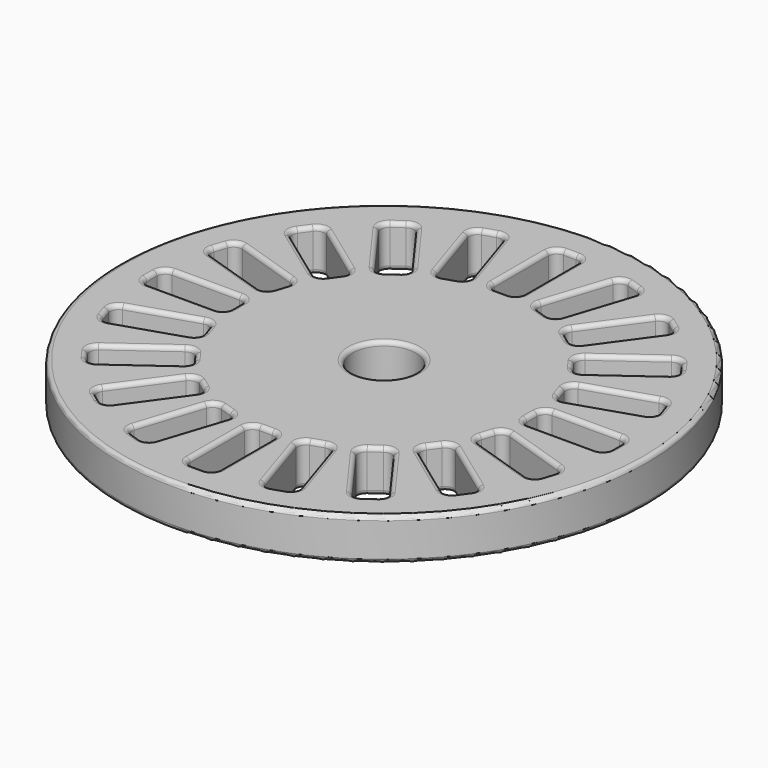
from build123d import *

# Parameters (mm, degrees)
F0_R     = 12.5
F0_R_2   = 1.5
F1_DEPTH = 2
F2_R     = 0.2


with BuildPart() as f1:
    # F0 (on Top) → F1 (new body)
    with BuildSketch(Plane.XY):
        Circle(F0_R)
        with BuildLine():
            ThreePointArc((-6.708343, -8.722851), (-6.868304, -8.461818), (-6.796836, -8.16413))
            Line((-6.796836, -8.16413), (-4.915923, -5.575276))
            ThreePointArc((-4.915923, -5.575276), (-4.65489, -5.415315), (-4.357202, -5.486783))
            Line((-4.357202, -5.486783), (-3.871792, -5.839455))
            ThreePointArc((-3.871792, -5.839455), (-3.71183, -6.100488), (-3.783299, -6.398175))
            Line((-3.783299, -6.398175), (-5.664212, -8.98703))
            ThreePointArc((-5.664212, -8.98703), (-5.925245, -9.146991), (-6.222933, -9.075523))
            Line((-6.222933, -9.075523), (-6.708343, -8.722851))
        make_face(mode=Mode.SUBTRACT)
        with BuildLine():
            ThreePointArc((-3.684504, -10.368917), (-3.9173, -10.17009), (-3.94132, -9.864887))
            Line((-3.94132, -9.864887), (-2.952465, -6.821506))
            ThreePointArc((-2.952465, -6.821506), (-2.753639, -6.588711), (-2.448436, -6.564691))
            Line((-2.448436, -6.564691), (-1.877802, -6.750101))
            ThreePointArc((-1.877802, -6.750101), (-1.645006, -6.948927), (-1.620986, -7.25413))
            Line((-1.620986, -7.25413), (-2.609841, -10.297511))
            ThreePointArc((-2.609841, -10.297511), (-2.808667, -10.530307), (-3.11387, -10.554327))
            Line((-3.11387, -10.554327), (-3.684504, -10.368917))
        make_face(mode=Mode.SUBTRACT)
        with BuildLine():
            ThreePointArc((-9.075523, -6.222933), (-9.146991, -5.925245), (-8.98703, -5.664212))
            Line((-8.98703, -5.664212), (-6.398175, -3.783299))
            ThreePointArc((-6.398175, -3.783299), (-6.100488, -3.71183), (-5.839455, -3.871792))
            Line((-5.839455, -3.871792), (-5.486783, -4.357202))
            ThreePointArc((-5.486783, -4.357202), (-5.415315, -4.65489), (-5.575276, -4.915923))
            Line((-5.575276, -4.915923), (-8.16413, -6.796836))
            ThreePointArc((-8.16413, -6.796836), (-8.461818, -6.868304), (-8.722851, -6.708343))
            Line((-8.722851, -6.708343), (-9.075523, -6.222933))
        make_face(mode=Mode.SUBTRACT)
        with BuildLine():
            ThreePointArc((-10.554327, -3.11387), (-10.530307, -2.808667), (-10.297511, -2.609841))
            Line((-10.297511, -2.609841), (-7.25413, -1.620986))
            ThreePointArc((-7.25413, -1.620986), (-6.948927, -1.645006), (-6.750101, -1.877802))
            Line((-6.750101, -1.877802), (-6.564691, -2.448436))
            ThreePointArc((-6.564691, -2.448436), (-6.588711, -2.753639), (-6.821506, -2.952465))
            Line((-6.821506, -2.952465), (-9.864887, -3.94132))
            ThreePointArc((-9.864887, -3.94132), (-10.17009, -3.9173), (-10.368917, -3.684504))
            Line((-10.368917, -3.684504), (-10.554327, -3.11387))
        make_face(mode=Mode.SUBTRACT)
        with BuildLine():
            ThreePointArc((-0.3, -11), (-0.582843, -10.882843), (-0.7, -10.6))
            Line((-0.7, -10.6), (-0.7, -7.4))
            ThreePointArc((-0.7, -7.4), (-0.582843, -7.117157), (-0.3, -7))
            Line((-0.3, -7), (0.3, -7))
            ThreePointArc((0.3, -7), (0.582843, -7.117157), (0.7, -7.4))
            Line((0.7, -7.4), (0.7, -10.6))
            ThreePointArc((0.7, -10.6), (0.582843, -10.882843), (0.3, -11))
            Line((0.3, -11), (-0.3, -11))
        make_face(mode=Mode.SUBTRACT)
        with BuildLine():
            ThreePointArc((3.11387, -10.554327), (2.808667, -10.530307), (2.609841, -10.297511))
            Line((2.609841, -10.297511), (1.620986, -7.25413))
            ThreePointArc((1.620986, -7.25413), (1.645006, -6.948927), (1.877802, -6.750101))
            Line((1.877802, -6.750101), (2.448436, -6.564691))
            ThreePointArc((2.448436, -6.564691), (2.753639, -6.588711), (2.952465, -6.821506))
            Line((2.952465, -6.821506), (3.94132, -9.864887))
            ThreePointArc((3.94132, -9.864887), (3.9173, -10.17009), (3.684504, -10.368917))
            Line((3.684504, -10.368917), (3.11387, -10.554327))
        make_face(mode=Mode.SUBTRACT)
        with BuildLine():
            ThreePointArc((6.222933, -9.075523), (5.925245, -9.146991), (5.664212, -8.98703))
            Line((5.664212, -8.98703), (3.783299, -6.398175))
            ThreePointArc((3.783299, -6.398175), (3.71183, -6.100488), (3.871792, -5.839455))
            Line((3.871792, -5.839455), (4.357202, -5.486783))
            ThreePointArc((4.357202, -5.486783), (4.65489, -5.415315), (4.915923, -5.575276))
            Line((4.915923, -5.575276), (6.796836, -8.16413))
            ThreePointArc((6.796836, -8.16413), (6.868304, -8.461818), (6.708343, -8.722851))
            Line((6.708343, -8.722851), (6.222933, -9.075523))
        make_face(mode=Mode.SUBTRACT)
        with BuildLine():
            ThreePointArc((8.722851, -6.708343), (8.461818, -6.868304), (8.16413, -6.796836))
            Line((8.16413, -6.796836), (5.575276, -4.915923))
            ThreePointArc((5.575276, -4.915923), (5.415315, -4.65489), (5.486783, -4.357202))
            Line((5.486783, -4.357202), (5.839455, -3.871792))
            ThreePointArc((5.839455, -3.871792), (6.100488, -3.71183), (6.398175, -3.783299))
            Line((6.398175, -3.783299), (8.98703, -5.664212))
            ThreePointArc((8.98703, -5.664212), (9.146991, -5.925245), (9.075523, -6.222933))
            Line((9.075523, -6.222933), (8.722851, -6.708343))
        make_face(mode=Mode.SUBTRACT)
        with BuildLine():
            ThreePointArc((10.368917, -3.684504), (10.17009, -3.9173), (9.864887, -3.94132))
            Line((9.864887, -3.94132), (6.821506, -2.952465))
            ThreePointArc((6.821506, -2.952465), (6.588711, -2.753639), (6.564691, -2.448436))
            Line((6.564691, -2.448436), (6.750101, -1.877802))
            ThreePointArc((6.750101, -1.877802), (6.948927, -1.645006), (7.25413, -1.620986))
            Line((7.25413, -1.620986), (10.297511, -2.609841))
            ThreePointArc((10.297511, -2.609841), (10.530307, -2.808667), (10.554327, -3.11387))
            Line((10.554327, -3.11387), (10.368917, -3.684504))
        make_face(mode=Mode.SUBTRACT)
        with BuildLine():
            ThreePointArc((-11, 0.3), (-10.882843, 0.582843), (-10.6, 0.7))
            Line((-10.6, 0.7), (-7.4, 0.7))
            ThreePointArc((-7.4, 0.7), (-7.117157, 0.582843), (-7, 0.3))
            Line((-7, 0.3), (-7, -0.3))
            ThreePointArc((-7, -0.3), (-7.117157, -0.582843), (-7.4, -0.7))
            Line((-7.4, -0.7), (-10.6, -0.7))
            ThreePointArc((-10.6, -0.7), (-10.882843, -0.582843), (-11, -0.3))
            Line((-11, -0.3), (-11, 0.3))
        make_face(mode=Mode.SUBTRACT)
        with BuildLine():
            ThreePointArc((-10.368917, 3.684504), (-10.17009, 3.9173), (-9.864887, 3.94132))
            Line((-9.864887, 3.94132), (-6.821506, 2.952465))
            ThreePointArc((-6.821506, 2.952465), (-6.588711, 2.753639), (-6.564691, 2.448436))
            Line((-6.564691, 2.448436), (-6.750101, 1.877802))
            ThreePointArc((-6.750101, 1.877802), (-6.948927, 1.645006), (-7.25413, 1.620986))
            Line((-7.25413, 1.620986), (-10.297511, 2.609841))
            ThreePointArc((-10.297511, 2.609841), (-10.530307, 2.808667), (-10.554327, 3.11387))
            Line((-10.554327, 3.11387), (-10.368917, 3.684504))
        make_face(mode=Mode.SUBTRACT)
        with BuildLine():
            ThreePointArc((-8.722851, 6.708343), (-8.461818, 6.868304), (-8.16413, 6.796836))
            Line((-8.16413, 6.796836), (-5.575276, 4.915923))
            ThreePointArc((-5.575276, 4.915923), (-5.415315, 4.65489), (-5.486783, 4.357202))
            Line((-5.486783, 4.357202), (-5.839455, 3.871792))
            ThreePointArc((-5.839455, 3.871792), (-6.100488, 3.71183), (-6.398175, 3.783299))
            Line((-6.398175, 3.783299), (-8.98703, 5.664212))
            ThreePointArc((-8.98703, 5.664212), (-9.146991, 5.925245), (-9.075523, 6.222933))
            Line((-9.075523, 6.222933), (-8.722851, 6.708343))
        make_face(mode=Mode.SUBTRACT)
        with BuildLine():
            ThreePointArc((-6.222933, 9.075523), (-5.925245, 9.146991), (-5.664212, 8.98703))
            Line((-5.664212, 8.98703), (-3.783299, 6.398175))
            ThreePointArc((-3.783299, 6.398175), (-3.71183, 6.100488), (-3.871792, 5.839455))
            Line((-3.871792, 5.839455), (-4.357202, 5.486783))
            ThreePointArc((-4.357202, 5.486783), (-4.65489, 5.415315), (-4.915923, 5.575276))
            Line((-4.915923, 5.575276), (-6.796836, 8.16413))
            ThreePointArc((-6.796836, 8.16413), (-6.868304, 8.461818), (-6.708343, 8.722851))
            Line((-6.708343, 8.722851), (-6.222933, 9.075523))
        make_face(mode=Mode.SUBTRACT)
        with BuildLine():
            ThreePointArc((-3.11387, 10.554327), (-2.808667, 10.530307), (-2.609841, 10.297511))
            Line((-2.609841, 10.297511), (-1.620986, 7.25413))
            ThreePointArc((-1.620986, 7.25413), (-1.645006, 6.948927), (-1.877802, 6.750101))
            Line((-1.877802, 6.750101), (-2.448436, 6.564691))
            ThreePointArc((-2.448436, 6.564691), (-2.753639, 6.588711), (-2.952465, 6.821506))
            Line((-2.952465, 6.821506), (-3.94132, 9.864887))
            ThreePointArc((-3.94132, 9.864887), (-3.9173, 10.17009), (-3.684504, 10.368917))
            Line((-3.684504, 10.368917), (-3.11387, 10.554327))
        make_face(mode=Mode.SUBTRACT)
        Circle(F0_R_2, mode=Mode.SUBTRACT)
        with BuildLine():
            ThreePointArc((11, -0.3), (10.882843, -0.582843), (10.6, -0.7))
            Line((10.6, -0.7), (7.4, -0.7))
            ThreePointArc((7.4, -0.7), (7.117157, -0.582843), (7, -0.3))
            Line((7, -0.3), (7, 0.3))
            ThreePointArc((7, 0.3), (7.117157, 0.582843), (7.4, 0.7))
            Line((7.4, 0.7), (10.6, 0.7))
            ThreePointArc((10.6, 0.7), (10.882843, 0.582843), (11, 0.3))
            Line((11, 0.3), (11, -0.3))
        make_face(mode=Mode.SUBTRACT)
        with BuildLine():
            ThreePointArc((10.554327, 3.11387), (10.530307, 2.808667), (10.297511, 2.609841))
            Line((10.297511, 2.609841), (7.25413, 1.620986))
            ThreePointArc((7.25413, 1.620986), (6.948927, 1.645006), (6.750101, 1.877802))
            Line((6.750101, 1.877802), (6.564691, 2.448436))
            ThreePointArc((6.564691, 2.448436), (6.588711, 2.753639), (6.821506, 2.952465))
            Line((6.821506, 2.952465), (9.864887, 3.94132))
            ThreePointArc((9.864887, 3.94132), (10.17009, 3.9173), (10.368917, 3.684504))
            Line((10.368917, 3.684504), (10.554327, 3.11387))
        make_face(mode=Mode.SUBTRACT)
        with BuildLine():
            ThreePointArc((9.075523, 6.222933), (9.146991, 5.925245), (8.98703, 5.664212))
            Line((8.98703, 5.664212), (6.398175, 3.783299))
            ThreePointArc((6.398175, 3.783299), (6.100488, 3.71183), (5.839455, 3.871792))
            Line((5.839455, 3.871792), (5.486783, 4.357202))
            ThreePointArc((5.486783, 4.357202), (5.415315, 4.65489), (5.575276, 4.915923))
            Line((5.575276, 4.915923), (8.16413, 6.796836))
            ThreePointArc((8.16413, 6.796836), (8.461818, 6.868304), (8.722851, 6.708343))
            Line((8.722851, 6.708343), (9.075523, 6.222933))
        make_face(mode=Mode.SUBTRACT)
        with BuildLine():
            Line((-0.3, 11), (0.3, 11))
            ThreePointArc((0.3, 11), (0.582843, 10.882843), (0.7, 10.6))
            Line((0.7, 10.6), (0.7, 7.4))
            ThreePointArc((0.7, 7.4), (0.582843, 7.117157), (0.3, 7))
            Line((0.3, 7), (-0.3, 7))
            ThreePointArc((-0.3, 7), (-0.582843, 7.117157), (-0.7, 7.4))
            Line((-0.7, 7.4), (-0.7, 10.6))
            ThreePointArc((-0.7, 10.6), (-0.582843, 10.882843), (-0.3, 11))
        make_face(mode=Mode.SUBTRACT)
        with BuildLine():
            ThreePointArc((3.684504, 10.368917), (3.9173, 10.17009), (3.94132, 9.864887))
            Line((3.94132, 9.864887), (2.952465, 6.821506))
            ThreePointArc((2.952465, 6.821506), (2.753639, 6.588711), (2.448436, 6.564691))
            Line((2.448436, 6.564691), (1.877802, 6.750101))
            ThreePointArc((1.877802, 6.750101), (1.645006, 6.948927), (1.620986, 7.25413))
            Line((1.620986, 7.25413), (2.609841, 10.297511))
            ThreePointArc((2.609841, 10.297511), (2.808667, 10.530307), (3.11387, 10.554327))
            Line((3.11387, 10.554327), (3.684504, 10.368917))
        make_face(mode=Mode.SUBTRACT)
        with BuildLine():
            ThreePointArc((6.708343, 8.722851), (6.868304, 8.461818), (6.796836, 8.16413))
            Line((6.796836, 8.16413), (4.915923, 5.575276))
            ThreePointArc((4.915923, 5.575276), (4.65489, 5.415315), (4.357202, 5.486783))
            Line((4.357202, 5.486783), (3.871792, 5.839455))
            ThreePointArc((3.871792, 5.839455), (3.71183, 6.100488), (3.783299, 6.398175))
            Line((3.783299, 6.398175), (5.664212, 8.98703))
            ThreePointArc((5.664212, 8.98703), (5.925245, 9.146991), (6.222933, 9.075523))
            Line((6.222933, 9.075523), (6.708343, 8.722851))
        make_face(mode=Mode.SUBTRACT)
    extrude(amount=F1_DEPTH)

    # F2
    f2_edges = [f1.edges().sort_by_distance(p)[0] for p in [
        (-12.5, 0, 2),
        (-6.868304, -8.461818, 2),
        (-5.856379, -6.869703, 2),
        (-4.65489, -5.415315, 2),
        (-4.114497, -5.663119, 2),
        (-3.71183, -6.100488, 2),
        (-4.723755, -7.692603, 2),
        (-5.925245, -9.146991, 2),
        (-6.465638, -8.899187, 2),
        (-3.399187, -10.461622, 2),
        (-3.9173, -10.17009, 2),
        (-3.446893, -8.343197, 2),
        (-2.753639, -6.588711, 2),
        (-2.163119, -6.657396, 2),
        (-1.645006, -6.948927, 2),
        (-2.115413, -8.775821, 2),
        (-2.808667, -10.530307, 2),
        (-8.461818, -6.868304, 2),
        (-8.899187, -6.465638, 2),
        (-9.146991, -5.925245, 2),
        (-7.692603, -4.723755, 2),
        (-6.100488, -3.71183, 2),
        (-5.663119, -4.114497, 2),
        (-5.415315, -4.65489, 2),
        (-6.869703, -5.856379, 2),
        (-10.461622, -3.399187, 2),
        (-10.530307, -2.808667, 2),
        (-8.775821, -2.115413, 2),
        (-6.948927, -1.645006, 2),
        (-6.657396, -2.163119, 2),
        (-6.588711, -2.753639, 2),
        (-8.343197, -3.446893, 2),
        (-10.17009, -3.9173, 2),
        (0.582843, -10.882843, 2),
        (0, -11, 2),
        (-0.582843, -10.882843, 2),
        (-0.7, -9, 2),
        (-0.582843, -7.117157, 2),
        (0, -7, 2),
        (0.582843, -7.117157, 2),
        (0.7, -9, 2),
        (2.808667, -10.530307, 2),
        (2.115413, -8.775821, 2),
        (1.645006, -6.948927, 2),
        (2.163119, -6.657396, 2),
        (2.753639, -6.588711, 2),
        (3.446893, -8.343197, 2),
        (3.9173, -10.17009, 2),
        (3.399187, -10.461622, 2),
        (5.925245, -9.146991, 2),
        (4.723755, -7.692603, 2),
        (3.71183, -6.100488, 2),
        (4.114497, -5.663119, 2),
        (4.65489, -5.415315, 2),
        (5.856379, -6.869703, 2),
        (6.868304, -8.461818, 2),
        (6.465638, -8.899187, 2),
        (8.461818, -6.868304, 2),
        (6.869703, -5.856379, 2),
        (5.415315, -4.65489, 2),
        (5.663119, -4.114497, 2),
        (6.100488, -3.71183, 2),
        (7.692603, -4.723755, 2),
        (9.146991, -5.925245, 2),
        (8.899187, -6.465638, 2),
        (10.461622, -3.399187, 2),
        (10.17009, -3.9173, 2),
        (8.343197, -3.446893, 2),
        (6.588711, -2.753639, 2),
        (6.657396, -2.163119, 2),
        (6.948927, -1.645006, 2),
        (8.775821, -2.115413, 2),
        (10.530307, -2.808667, 2),
        (-10.882843, -0.582843, 2),
        (-11, 0, 2),
        (-10.882843, 0.582843, 2),
        (-9, 0.7, 2),
        (-7.117157, 0.582843, 2),
        (-7, 0, 2),
        (-7.117157, -0.582843, 2),
        (-9, -0.7, 2),
        (-10.461622, 3.399187, 2),
        (-10.17009, 3.9173, 2),
        (-8.343197, 3.446893, 2),
        (-6.588711, 2.753639, 2),
        (-6.657396, 2.163119, 2),
        (-6.948927, 1.645006, 2),
        (-8.775821, 2.115413, 2),
        (-10.530307, 2.808667, 2),
        (-8.461818, 6.868304, 2),
        (-6.869703, 5.856379, 2),
        (-5.415315, 4.65489, 2),
        (-5.663119, 4.114497, 2),
        (-6.100488, 3.71183, 2),
        (-7.692603, 4.723755, 2),
        (-9.146991, 5.925245, 2),
        (-8.899187, 6.465638, 2),
        (-6.868304, 8.461818, 2),
        (-6.465638, 8.899187, 2),
        (-5.925245, 9.146991, 2),
        (-4.723755, 7.692603, 2),
        (-3.71183, 6.100488, 2),
        (-4.114497, 5.663119, 2),
        (-4.65489, 5.415315, 2),
        (-5.856379, 6.869703, 2),
        (-3.9173, 10.17009, 2),
        (-3.399187, 10.461622, 2),
        (-2.808667, 10.530307, 2),
        (-2.115413, 8.775821, 2),
        (-1.645006, 6.948927, 2),
        (-2.163119, 6.657396, 2),
        (-2.753639, 6.588711, 2),
        (-3.446893, 8.343197, 2),
        (-1.5, 0, 2),
        (10.882843, -0.582843, 2),
        (9, -0.7, 2),
        (7.117157, -0.582843, 2),
        (7, 0, 2),
        (7.117157, 0.582843, 2),
        (9, 0.7, 2),
        (10.882843, 0.582843, 2),
        (11, 0, 2),
        (10.461622, 3.399187, 2),
        (10.530307, 2.808667, 2),
        (8.775821, 2.115413, 2),
        (6.948927, 1.645006, 2),
        (6.657396, 2.163119, 2),
        (6.588711, 2.753639, 2),
        (8.343197, 3.446893, 2),
        (10.17009, 3.9173, 2),
        (8.461818, 6.868304, 2),
        (8.899187, 6.465638, 2),
        (9.146991, 5.925245, 2),
        (7.692603, 4.723755, 2),
        (6.100488, 3.71183, 2),
        (5.663119, 4.114497, 2),
        (5.415315, 4.65489, 2),
        (6.869703, 5.856379, 2),
        (-0.7, 9, 2),
        (-0.582843, 10.882843, 2),
        (0, 11, 2),
        (0.582843, 10.882843, 2),
        (0.7, 9, 2),
        (0.582843, 7.117157, 2),
        (0, 7, 2),
        (-0.582843, 7.117157, 2),
        (3.399187, 10.461622, 2),
        (3.9173, 10.17009, 2),
        (3.446893, 8.343197, 2),
        (2.753639, 6.588711, 2),
        (2.163119, 6.657396, 2),
        (1.645006, 6.948927, 2),
        (2.115413, 8.775821, 2),
        (2.808667, 10.530307, 2),
        (6.868304, 8.461818, 2),
        (5.856379, 6.869703, 2),
        (4.65489, 5.415315, 2),
        (4.114497, 5.663119, 2),
        (3.71183, 6.100488, 2),
        (4.723755, 7.692603, 2),
        (5.925245, 9.146991, 2),
        (6.465638, 8.899187, 2),
        (-12.5, 0, 0),
        (-6.868304, -8.461818, 0),
        (-5.856379, -6.869703, 0),
        (-4.65489, -5.415315, 0),
        (-4.114497, -5.663119, 0),
        (-3.71183, -6.100488, 0),
        (-4.723755, -7.692603, 0),
        (-5.925245, -9.146991, 0),
        (-6.465638, -8.899187, 0),
        (-3.399187, -10.461622, 0),
        (-3.9173, -10.17009, 0),
        (-3.446893, -8.343197, 0),
        (-2.753639, -6.588711, 0),
        (-2.163119, -6.657396, 0),
        (-1.645006, -6.948927, 0),
        (-2.115413, -8.775821, 0),
        (-2.808667, -10.530307, 0),
        (-8.461818, -6.868304, 0),
        (-8.899187, -6.465638, 0),
        (-9.146991, -5.925245, 0),
        (-7.692603, -4.723755, 0),
        (-6.100488, -3.71183, 0),
        (-5.663119, -4.114497, 0),
        (-5.415315, -4.65489, 0),
        (-6.869703, -5.856379, 0),
        (-10.461622, -3.399187, 0),
        (-10.530307, -2.808667, 0),
        (-8.775821, -2.115413, 0),
        (-6.948927, -1.645006, 0),
        (-6.657396, -2.163119, 0),
        (-6.588711, -2.753639, 0),
        (-8.343197, -3.446893, 0),
        (-10.17009, -3.9173, 0),
        (0.582843, -10.882843, 0),
        (0, -11, 0),
        (-0.582843, -10.882843, 0),
        (-0.7, -9, 0),
        (-0.582843, -7.117157, 0),
        (0, -7, 0),
        (0.582843, -7.117157, 0),
        (0.7, -9, 0),
        (2.808667, -10.530307, 0),
        (2.115413, -8.775821, 0),
        (1.645006, -6.948927, 0),
        (2.163119, -6.657396, 0),
        (2.753639, -6.588711, 0),
        (3.446893, -8.343197, 0),
        (3.9173, -10.17009, 0),
        (3.399187, -10.461622, 0),
        (5.925245, -9.146991, 0),
        (4.723755, -7.692603, 0),
        (3.71183, -6.100488, 0),
        (4.114497, -5.663119, 0),
        (4.65489, -5.415315, 0),
        (5.856379, -6.869703, 0),
        (6.868304, -8.461818, 0),
        (6.465638, -8.899187, 0),
        (8.461818, -6.868304, 0),
        (6.869703, -5.856379, 0),
        (5.415315, -4.65489, 0),
        (5.663119, -4.114497, 0),
        (6.100488, -3.71183, 0),
        (7.692603, -4.723755, 0),
        (9.146991, -5.925245, 0),
        (8.899187, -6.465638, 0),
        (10.461622, -3.399187, 0),
        (10.17009, -3.9173, 0),
        (8.343197, -3.446893, 0),
        (6.588711, -2.753639, 0),
        (6.657396, -2.163119, 0),
        (6.948927, -1.645006, 0),
        (8.775821, -2.115413, 0),
        (10.530307, -2.808667, 0),
        (-10.882843, -0.582843, 0),
        (-11, 0, 0),
        (-10.882843, 0.582843, 0),
        (-9, 0.7, 0),
        (-7.117157, 0.582843, 0),
        (-7, 0, 0),
        (-7.117157, -0.582843, 0),
        (-9, -0.7, 0),
        (-10.461622, 3.399187, 0),
        (-10.17009, 3.9173, 0),
        (-8.343197, 3.446893, 0),
        (-6.588711, 2.753639, 0),
        (-6.657396, 2.163119, 0),
        (-6.948927, 1.645006, 0),
        (-8.775821, 2.115413, 0),
        (-10.530307, 2.808667, 0),
        (-8.461818, 6.868304, 0),
        (-6.869703, 5.856379, 0),
        (-5.415315, 4.65489, 0),
        (-5.663119, 4.114497, 0),
        (-6.100488, 3.71183, 0),
        (-7.692603, 4.723755, 0),
        (-9.146991, 5.925245, 0),
        (-8.899187, 6.465638, 0),
        (-6.868304, 8.461818, 0),
        (-6.465638, 8.899187, 0),
        (-5.925245, 9.146991, 0),
        (-4.723755, 7.692603, 0),
        (-3.71183, 6.100488, 0),
        (-4.114497, 5.663119, 0),
        (-4.65489, 5.415315, 0),
        (-5.856379, 6.869703, 0),
        (-3.9173, 10.17009, 0),
        (-3.399187, 10.461622, 0),
        (-2.808667, 10.530307, 0),
        (-2.115413, 8.775821, 0),
        (-1.645006, 6.948927, 0),
        (-2.163119, 6.657396, 0),
        (-2.753639, 6.588711, 0),
        (-3.446893, 8.343197, 0),
        (-1.5, 0, 0),
        (10.882843, -0.582843, 0),
        (9, -0.7, 0),
        (7.117157, -0.582843, 0),
        (7, 0, 0),
        (7.117157, 0.582843, 0),
        (9, 0.7, 0),
        (10.882843, 0.582843, 0),
        (11, 0, 0),
        (10.461622, 3.399187, 0),
        (10.530307, 2.808667, 0),
        (8.775821, 2.115413, 0),
        (6.948927, 1.645006, 0),
        (6.657396, 2.163119, 0),
        (6.588711, 2.753639, 0),
        (8.343197, 3.446893, 0),
        (10.17009, 3.9173, 0),
        (8.461818, 6.868304, 0),
        (8.899187, 6.465638, 0),
        (9.146991, 5.925245, 0),
        (7.692603, 4.723755, 0),
        (6.100488, 3.71183, 0),
        (5.663119, 4.114497, 0),
        (5.415315, 4.65489, 0),
        (6.869703, 5.856379, 0),
        (-0.7, 9, 0),
        (-0.582843, 10.882843, 0),
        (0, 11, 0),
        (0.582843, 10.882843, 0),
        (0.7, 9, 0),
        (0.582843, 7.117157, 0),
        (0, 7, 0),
        (-0.582843, 7.117157, 0),
        (3.399187, 10.461622, 0),
        (3.9173, 10.17009, 0),
        (3.446893, 8.343197, 0),
        (2.753639, 6.588711, 0),
        (2.163119, 6.657396, 0),
        (1.645006, 6.948927, 0),
        (2.115413, 8.775821, 0),
        (2.808667, 10.530307, 0),
        (6.868304, 8.461818, 0),
        (5.856379, 6.869703, 0),
        (4.65489, 5.415315, 0),
        (4.114497, 5.663119, 0),
        (3.71183, 6.100488, 0),
        (4.723755, 7.692603, 0),
        (5.925245, 9.146991, 0),
        (6.465638, 8.899187, 0),
    ]]
    fillet(f2_edges, radius=F2_R)


solid = f1.part
